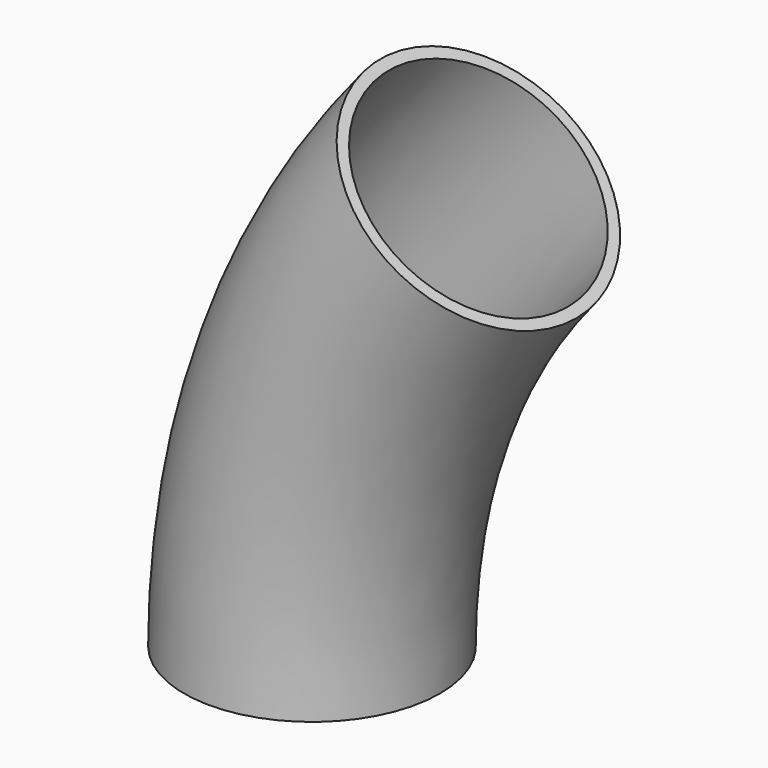
from build123d import *

# Parameters (mm, degrees)
F0_R          = 11.43
F3_DEPTH      = 11.4310001
F3_DEPTH_BACK = 11.4310001
F4_T          = -1


with BuildPart() as f1:
    # F0 (on Top) → F1 (revolve)
    with BuildSketch(Plane.XY):
        with Locations((-63.5, 0)):
            Circle(F0_R)
    revolve(axis=Axis((0, 30.6148057642, 0), (0, 1, 0)))

    # F2 (on Front) → F3 (cut, two sides)
    with BuildSketch(Plane.XZ) as f3_sk:
        with BuildLine():
            Line((-77.8301154209, 65.3072211442), (0, 0))
            Line((0, 0), (-101.6, 0))
            ThreePointArc((-101.6, 0), (95.4727702718, -34.7492465619), (-77.8301154209, 65.3072211442))
        make_face()
    extrude(amount=-F3_DEPTH, mode=Mode.SUBTRACT)
    extrude(f3_sk.sketch, amount=F3_DEPTH_BACK, mode=Mode.SUBTRACT)

    # F4
    f4_openings = [f1.faces().sort_by_distance(p)[0] for p in [
        (-48.643822, 0, 40.817013),
    ]]
    offset(amount=F4_T, openings=f4_openings)


solid = f1.part
